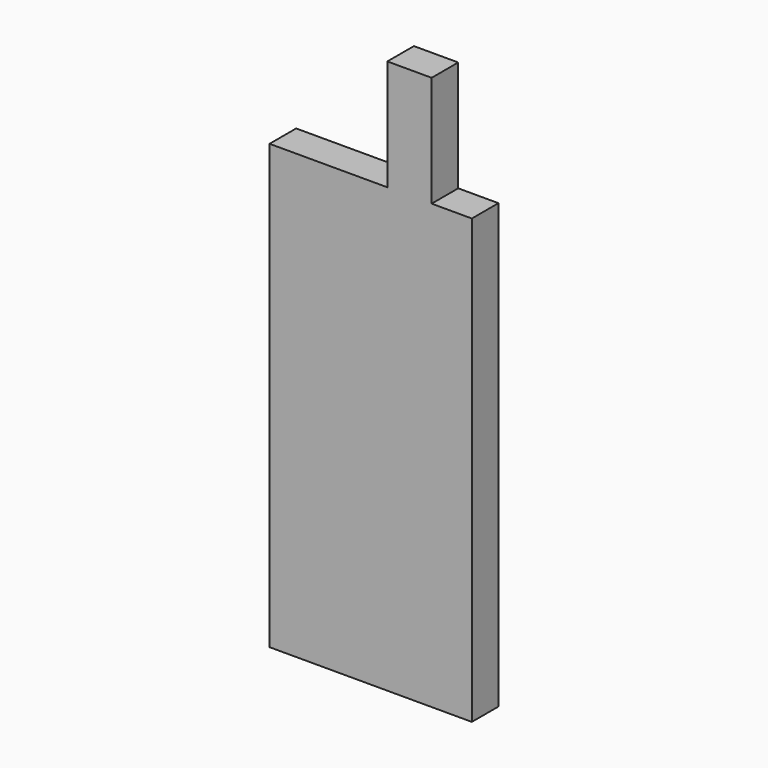
from build123d import *

# Parameters (mm, degrees)
F0_W     = 25.4
F0_H     = 63.5
F1_DEPTH = 19.05


with BuildPart() as f1:
    # F0 (on Front) → F1 (new body)
    with BuildSketch(Plane.XZ):
        Polygon((-53.701798, 123.424824), (-72.751798, 123.424824), (-72.751798, -130.575176), (-34.651798, -130.575176), (43.184318, -130.575176), (43.184318, 123.424824), (20.14126, 123.424824), (-5.25874, 123.424824), (-34.651798, 123.424824), align=None)
        with Locations((7.44126, 155.174824)):
            Rectangle(F0_W, F0_H)
    extrude(amount=F1_DEPTH)


solid = f1.part
